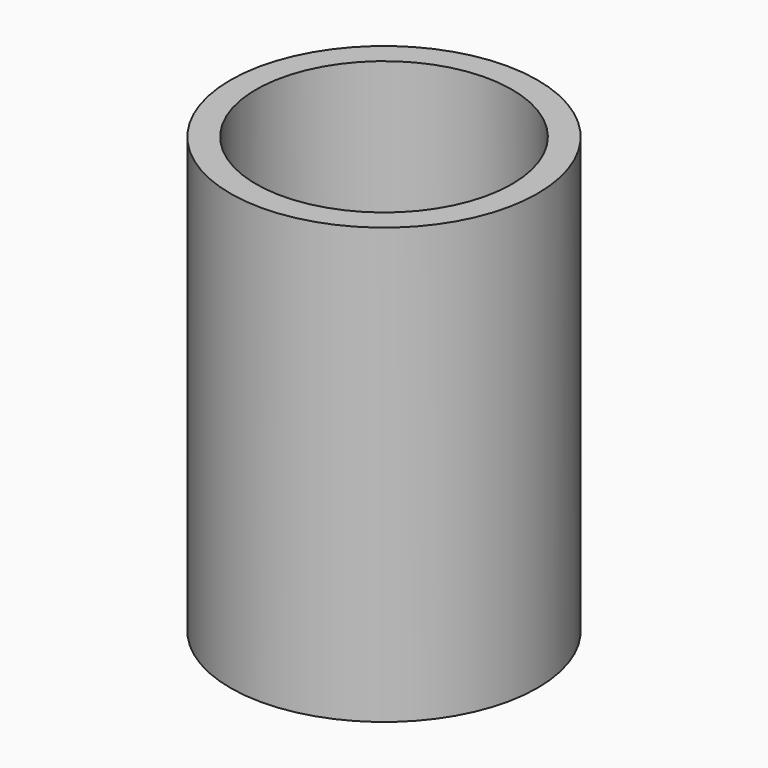
from build123d import *

# Parameters (mm, degrees)
F0_R     = 60
F1_DEPTH = 85
F2_T     = -10
F3_R     = 14.5
F4_DEPTH = 25


with BuildPart() as f1:
    # F0 (on Top) → F1 (new body, symmetric)
    with BuildSketch(Plane.XY):
        Circle(F0_R)
    extrude(amount=F1_DEPTH, both=True)

    # F2
    f2_openings = [f1.faces().sort_by_distance(p)[0] for p in [
        (0, 0, 85),
    ]]
    offset(amount=F2_T, openings=f2_openings)

    # F3 (on face) → F4 (cut, symmetric)
    with BuildSketch(Plane(origin=(0, 0, -85), x_dir=(1, 0, 0), z_dir=(0, 0, -1))):
        Circle(F3_R)
    extrude(amount=F4_DEPTH, both=True, mode=Mode.SUBTRACT)


solid = f1.part
